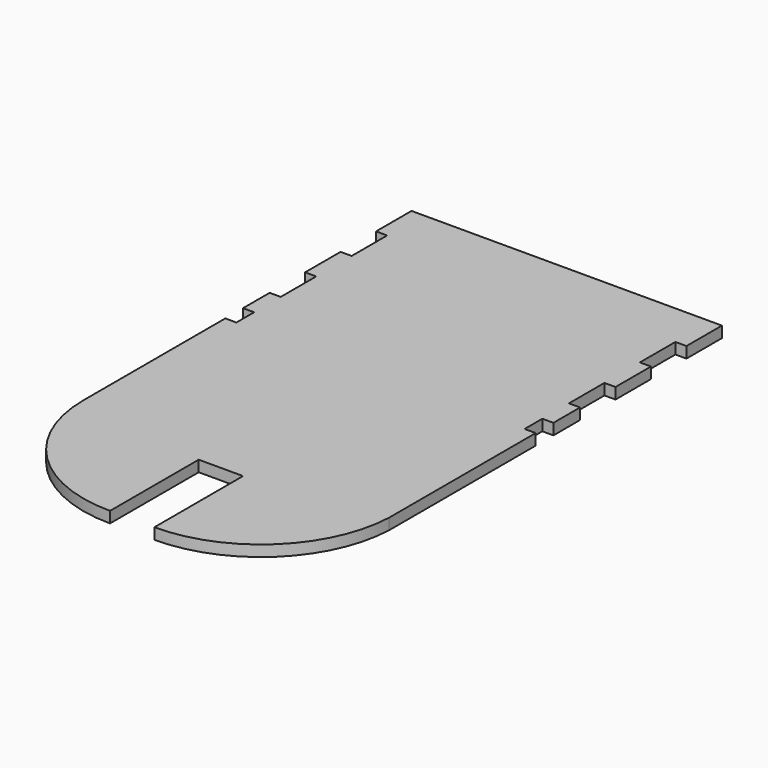
from build123d import *

# Parameters (mm, degrees)
F1_DEPTH = 3.175


with BuildPart() as f1:
    # F0 (on Top) → F1 (new body)
    with BuildSketch(Plane.XY):
        with BuildLine():
            Line((43.569532, 81.570669), (-45.330468, 81.570669))
            Line((-45.330468, 81.570669), (-45.330468, 68.870669))
            Line((-45.330468, 68.870669), (-42.155468, 68.870669))
            Line((-42.155468, 68.870669), (-42.155468, 56.170669))
            Line((-42.155468, 56.170669), (-45.330468, 56.170669))
            Line((-45.330468, 56.170669), (-45.330468, 43.470669))
            Line((-45.330468, 43.470669), (-42.155468, 43.470669))
            Line((-42.155468, 43.470669), (-42.155468, 30.770669))
            Line((-42.155468, 30.770669), (-45.330468, 30.770669))
            Line((-45.330468, 30.770669), (-45.330468, 21.245669))
            Line((-45.330468, 21.245669), (-42.155468, 21.245669))
            Line((-42.155468, 21.245669), (-42.155468, 14.895669))
            Line((-42.155468, 14.895669), (-45.330468, 14.895669))
            Line((-45.330468, 14.895669), (-45.330468, -35.904331))
            ThreePointArc((-45.330468, -35.904331), (-34.171236, -62.845099), (-7.230468, -74.004331))
            Line((-7.230468, -74.004331), (-7.230468, -42.254331))
            Line((-7.230468, -42.254331), (5.469532, -42.254331))
            Line((5.469532, -42.254331), (5.469532, -74.004331))
            Line((5.469532, -74.004331), (5.505628, -74.004331))
            ThreePointArc((5.505628, -74.004331), (31.853659, -63.425073), (43.569532, -37.562402))
            Line((43.569532, -37.562402), (43.569532, 14.895669))
            Line((43.569532, 14.895669), (40.394532, 14.895669))
            Line((40.394532, 14.895669), (40.394532, 21.245669))
            Line((40.394532, 21.245669), (43.569532, 21.245669))
            Line((43.569532, 21.245669), (43.569532, 30.770669))
            Line((43.569532, 30.770669), (40.394532, 30.770669))
            Line((40.394532, 30.770669), (40.394532, 43.470669))
            Line((40.394532, 43.470669), (43.569532, 43.470669))
            Line((43.569532, 43.470669), (43.569532, 56.170669))
            Line((43.569532, 56.170669), (40.394532, 56.170669))
            Line((40.394532, 56.170669), (40.394532, 68.870669))
            Line((40.394532, 68.870669), (43.569532, 68.870669))
            Line((43.569532, 68.870669), (43.569532, 81.570669))
        make_face()
    extrude(amount=F1_DEPTH)


solid = f1.part
